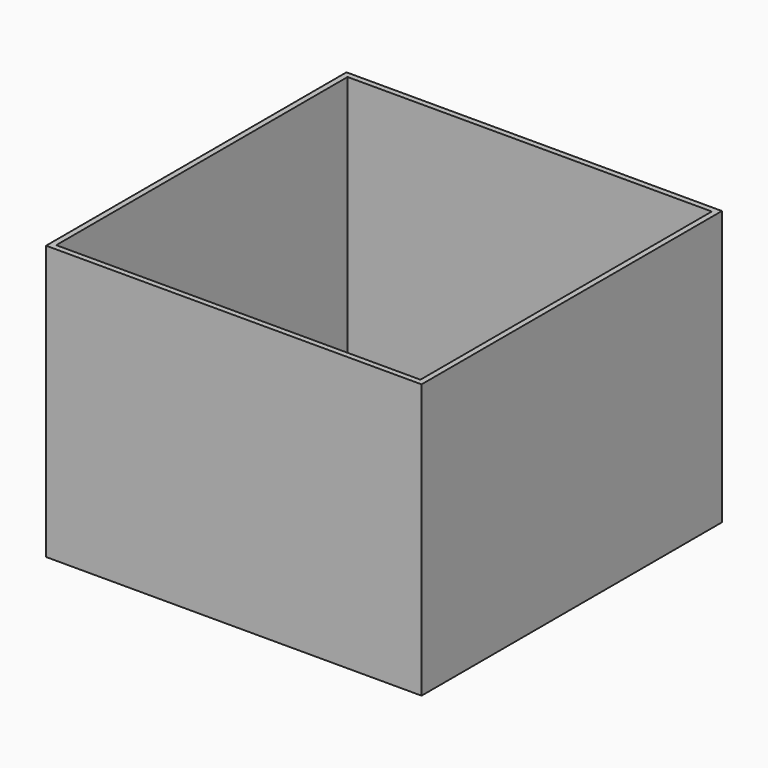
from build123d import *

# Parameters (mm, degrees)
F0_W     = 635
F0_H     = 635
F1_DEPTH = 15.875
F3_DEPTH = 447.675
F4_R     = 50.8
F5_DEPTH = 25.4
F6_W     = 254
F6_H     = 254
F6_R     = 3.4000059
F6_R_2   = 50.8
F7_DEPTH = 25.4


with BuildPart() as f1:
    # F0 (on Top) → F1 (new body)
    with BuildSketch(Plane.XY):
        with Locations((317.5, 317.5)):
            Rectangle(F0_W, F0_H)
    extrude(amount=F1_DEPTH)

    # F2 (on face) → F3 (join)
    with BuildSketch(Plane.XY.offset(15.875)):
        Polygon((0, 635), (0, 625.475), (9.525, 625.475), (625.475, 625.475), (625.475, 635), align=None)
        Polygon((0, 625.475), (0, 0), (9.525, 0), (9.525, 9.525), (9.525, 625.475), align=None)
        Polygon((9.525, 9.525), (9.525, 0), (635, 0), (635, 9.525), (625.475, 9.525), align=None)
        Polygon((625.475, 625.475), (625.475, 9.525), (635, 9.525), (635, 635), (625.475, 635), align=None)
    extrude(amount=F3_DEPTH)

    # F4 (on face) → F5 (cut, symmetric)
    with BuildSketch(Plane(origin=(0, 0, 0), x_dir=(1, 0, 0), z_dir=(0, 0, -1))):
        with Locations((317.5, -317.5)):
            Circle(F4_R)
    extrude(amount=F5_DEPTH, both=True, mode=Mode.SUBTRACT)

    # F6 (on face) → F7 (join)
    with BuildSketch(Plane(origin=(0, 0, 0), x_dir=(1, 0, 0), z_dir=(0, 0, -1))):
        with Locations((317.5, -317.5)):
            Rectangle(F6_W, F6_H)
        with Locations((274.7312995989, -420.7527765535)):
            Circle(F6_R, mode=Mode.SUBTRACT)
        with Locations((214.2472234465, -360.2687004011)):
            Circle(F6_R, mode=Mode.SUBTRACT)
        with Locations((360.2687004011, -420.7527765535)):
            Circle(F6_R, mode=Mode.SUBTRACT)
        with Locations((420.7527765535, -360.2687004011)):
            Circle(F6_R, mode=Mode.SUBTRACT)
        with Locations((214.2472234465, -274.7312995989)):
            Circle(F6_R, mode=Mode.SUBTRACT)
        with BuildLine():
            ThreePointArc((271.3312936989, -214.2472234465), (274.7312995989, -210.8472175465), (278.1313054989, -214.2472234465))
            ThreePointArc((278.1313054989, -214.2472234465), (274.7312995989, -217.6472293465), (271.3312936989, -214.2472234465))
        make_face(mode=Mode.SUBTRACT)
        with Locations((317.5, -317.5)):
            Circle(F6_R_2, mode=Mode.SUBTRACT)
        with Locations((420.7527765535, -274.7312995989)):
            Circle(F6_R, mode=Mode.SUBTRACT)
        with BuildLine():
            ThreePointArc((356.8686945011, -214.2472234465), (360.2687004011, -210.8472175465), (363.6687063011, -214.2472234465))
            ThreePointArc((363.6687063011, -214.2472234465), (360.2687004011, -217.6472293465), (356.8686945011, -214.2472234465))
        make_face(mode=Mode.SUBTRACT)
    extrude(amount=F7_DEPTH)


solid = f1.part
